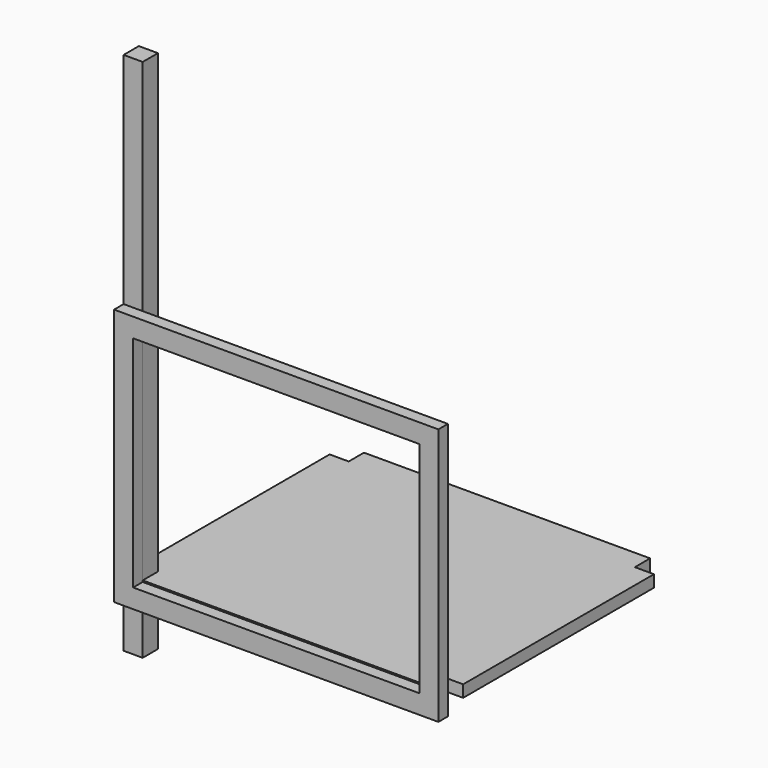
from build123d import *

# Parameters (mm, degrees)
F0_W     = 40
F0_H     = 40
F1_DEPTH = 1100
F2_W     = 40
F2_H     = 40
F3_DEPTH = 600
F4_W     = 40
F4_H     = 40
F5_DEPTH = 500
F6_W     = 40
F6_H     = 500
F7_DEPTH = 25
F8_W     = 680
F8_H     = 540
F8_W_2   = 600
F8_H_2   = 460
F9_DEPTH = 25


with BuildPart() as f1:
    # F0 (on Top) → F1 (new body)
    with BuildSketch(Plane.XY):
        Rectangle(F0_W, F0_H)
    extrude(amount=F1_DEPTH)


with BuildPart() as f3:
    # F2 (on face) → F3 (new body)
    with BuildSketch(Plane.YZ.offset(20)):
        with Locations((0, 105.371441)):
            Rectangle(F2_W, F2_H)
    extrude(amount=F3_DEPTH)


with BuildPart() as f5:
    # F4 (on face) → F5 (new body)
    with BuildSketch(Plane(origin=(0, 20, 0), x_dir=(-1, 0, 0), z_dir=(0, 1, 0))):
        with Locations((0, 97.993489)):
            Rectangle(F4_W, F4_H)
    extrude(amount=F5_DEPTH)


with BuildPart() as f7:
    # F6 (on face) → F7 (new body)
    with BuildSketch(Plane.XY.offset(117.993489)):
        with Locations((0, 270)):
            Rectangle(F6_W, F6_H)
        Polygon((20, 20), (20, -20), (620, -20), (620, 20), (660, 20), (660, 520), (620, 520), (620, 560), (20, 560), (20, 520), align=None)
    extrude(amount=F7_DEPTH)


with BuildPart() as f9:
    # F8 (on face) → F9 (new body)
    with BuildSketch(Plane.XZ.offset(20)):
        with Locations((320, 370.002818)):
            Rectangle(F8_W, F8_H)
        with Locations((320, 370.002818)):
            Rectangle(F8_W_2, F8_H_2, mode=Mode.SUBTRACT)
    extrude(amount=F9_DEPTH)


solid = Compound([f1.part, f3.part, f5.part, f7.part, f9.part])
